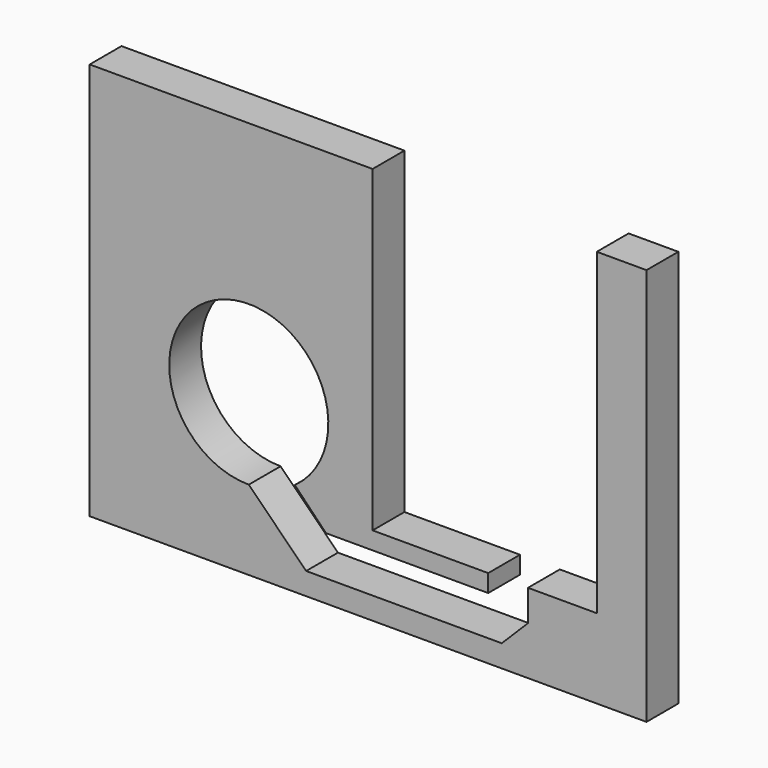
from build123d import *

# Parameters (mm, degrees)
F1_DEPTH = 12.7


with BuildPart() as f1:
    # F0 (on Front) → F1 (new body)
    with BuildSketch(Plane.XZ):
        with BuildLine():
            Line((-6.934965, 101.6), (-97.279148, 101.6))
            Line((-97.279148, 101.6), (-97.279148, -25.4))
            Line((-97.279148, -25.4), (80.520852, -25.4))
            Line((80.520852, -25.4), (80.520852, 101.6))
            Line((80.520852, 101.6), (64.645852, 101.6))
            Line((64.645852, 101.6), (64.645852, 0))
            Line((64.645852, 0), (42.674852, 0))
            Line((42.674852, 0), (42.674852, -9.948025))
            Line((42.674852, -9.948025), (34.306163, -18.316714))
            Line((34.306163, -18.316714), (-28.162433, -18.316714))
            Line((-28.162433, -18.316714), (-46.479148, 0))
            ThreePointArc((-46.479148, 0), (-54.198875, 49.598467), (-31.770048, 4.692456))
            Line((-31.770048, 4.692456), (-21.808546, -5.616714))
            Line((-21.808546, -5.616714), (29.974852, -5.616714))
            Line((29.974852, -5.616714), (29.974852, 0))
            Line((29.974852, 0), (-6.934965, 0))
            Line((-6.934965, 0), (-6.934965, 101.6))
        make_face()
    extrude(amount=F1_DEPTH)


solid = f1.part
